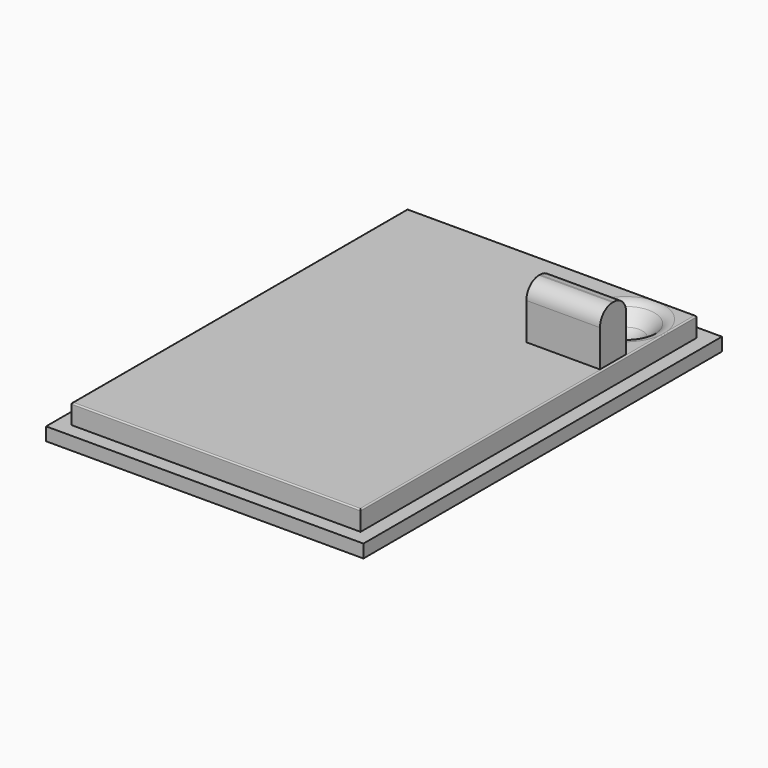
from build123d import *

# Parameters (mm, degrees)
PAD_DEPTH        = 34.1
SKETCH001_W      = 22
SKETCH001_H      = 1.07
POCKET_DEPTH     = 1.5
HOLE_D           = 2
HOLE_DEPTH       = 25
HOLE_CSINK_D     = 5
HOLE_CSINK_ANGLE = 90
FILLET_R         = 1
SKETCH003_W      = 5.6
SKETCH003_H      = 2.5
PAD001_DEPTH     = 4
FILLET001_R      = 1.2
FILLET002_R      = 0.1
FILLET003_R      = 1


with BuildPart() as part:
    # Sketch → Pad (new body)
    with BuildSketch(Plane.XZ):
        Polygon((-12.075, 0), (12.075, 0), (12.075, 1), (11, 1), (11, 2.5), (-11, 2.5), (-11, 1), (-12.075, 1), align=None)
    extrude(amount=PAD_DEPTH)

    # Sketch001 (on Face5 of Pad) → Pocket (cut)
    with BuildSketch(Plane(origin=(0, 0, 2.5), x_dir=(-1, 0, 0), z_dir=(0, 0, 1))):
        with Locations((0, 33.565)):
            Rectangle(SKETCH001_W, SKETCH001_H)
        with Locations((0, 0.535)):
            Rectangle(SKETCH001_W, SKETCH001_H)
    extrude(amount=-POCKET_DEPTH, mode=Mode.SUBTRACT)

    # Hole
    with Locations(Plane(origin=(0, 0, 2.5), x_dir=(-1, 0, 0), z_dir=(0, 0, 1))):
        with Locations((-8, 4.07)):
            CounterSinkHole(HOLE_D / 2, HOLE_CSINK_D / 2, depth=HOLE_DEPTH, counter_sink_angle=HOLE_CSINK_ANGLE)

    # Fillet
    fillet_edges = [part.edges().sort_by_distance(p)[0] for p in [
        (5.5, -4.07, 2.5),
    ]]
    fillet(fillet_edges, radius=FILLET_R)

    # Sketch003 (on Face4 of Fillet) → Pad001 (join)
    with BuildSketch(Plane(origin=(0, 0, 2.5), x_dir=(-1, 0, 0), z_dir=(0, 0, 1))):
        with Locations((-8.05, 8.82)):
            Rectangle(SKETCH003_W, SKETCH003_H)
    extrude(amount=PAD001_DEPTH)

    # Fillet001
    fillet001_edges = [part.edges().sort_by_distance(p)[0] for p in [
        (8.05, -7.57, 6.5),
        (8.05, -10.07, 6.5),
    ]]
    fillet(fillet001_edges, radius=FILLET001_R)

    # Fillet002
    fillet002_edges = [part.edges().sort_by_distance(p)[0] for p in [
        (11, -17.05, 2.5),
        (0, -33.03, 2.5),
        (-11, -17.05, 2.5),
        (0, -1.07, 2.5),
    ]]
    fillet(fillet002_edges, radius=FILLET002_R)

    # Fillet003
    fillet003_edges = [part.edges().sort_by_distance(p)[0] for p in [
        (7, -4.07, 1),
    ]]
    fillet(fillet003_edges, radius=FILLET003_R)


solid = part.part
